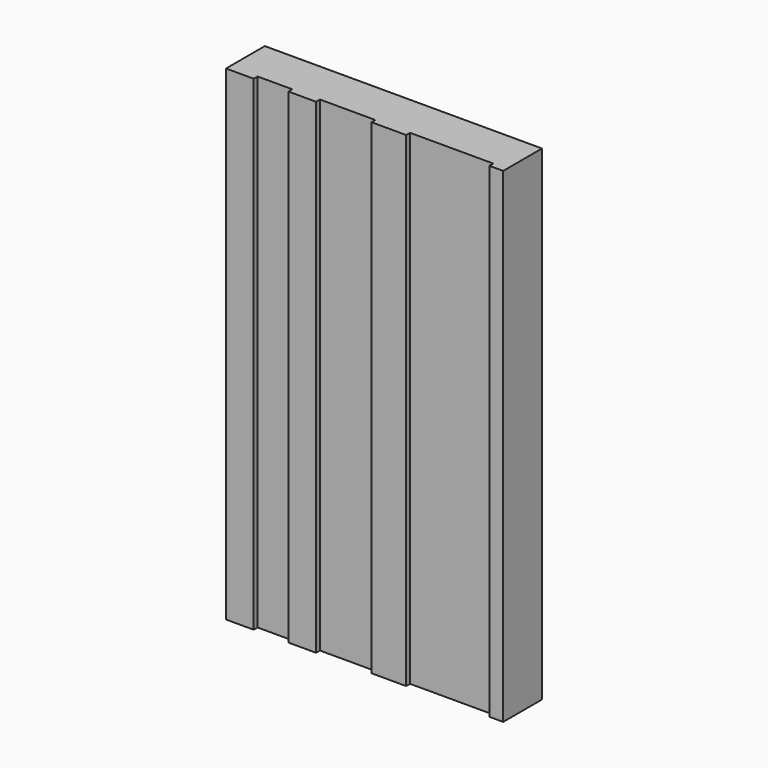
from build123d import *

# Parameters (mm, degrees)
F1_DEPTH = 350


with BuildPart() as f1:
    # F0 (on Top) → F1 (new body)
    with BuildSketch(Plane.XY):
        Polygon((102.266435, -45.12095), (-97.733565, -45.12095), (-97.733565, -80.12095), (-77.733565, -80.12095), (-77.733565, -76.62095), (-52.733565, -76.62095), (-52.733565, -80.12095), (-32.733565, -80.12095), (-32.733565, -76.62095), (7.266435, -76.62095), (7.266435, -80.12095), (32.266435, -80.12095), (32.266435, -76.62095), (92.266435, -76.62095), (92.266435, -80.12095), (102.266435, -80.12095), align=None)
    extrude(amount=-F1_DEPTH)


solid = f1.part
